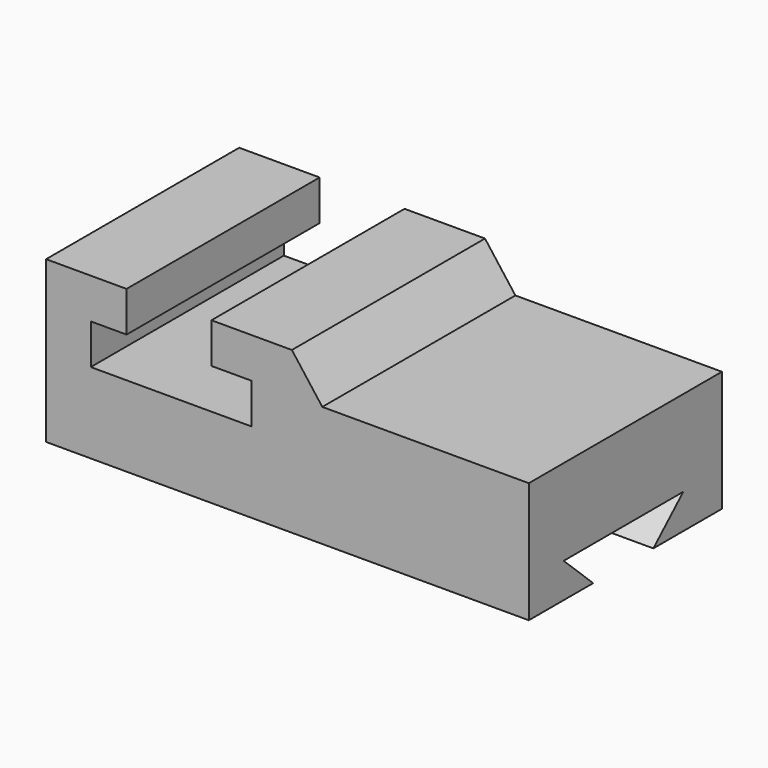
from build123d import *

# Parameters (mm, degrees)
F1_DEPTH = 76.2
F3_DEPTH = 152.4


with BuildPart() as f1:
    # F0 (on Front) → F1 (new body)
    with BuildSketch(Plane.XZ):
        Polygon((-76.556332, 50.8), (-76.556332, 0), (75.843668, 0), (75.843668, 38.1), (39.717197, 38.1), (10.648812, 38.1), (1.046149, 50.8), (-24.353851, 50.8), (-24.353851, 38.1), (-11.653851, 38.1), (-11.653851, 25.4), (-62.453851, 25.4), (-62.453851, 38.1), (-51.156332, 38.1), (-51.156332, 50.8), align=None)
    extrude(amount=F1_DEPTH)

    # F2 (on face) → F3 (cut, through all)
    with BuildSketch(Plane.YZ.offset(75.843668)):
        Polygon((-62.453851, 10.936619), (-50.8, 0), (-27.053742, 0), (-15.253706, 10.936619), align=None)
    extrude(amount=-F3_DEPTH, mode=Mode.SUBTRACT)


solid = f1.part
